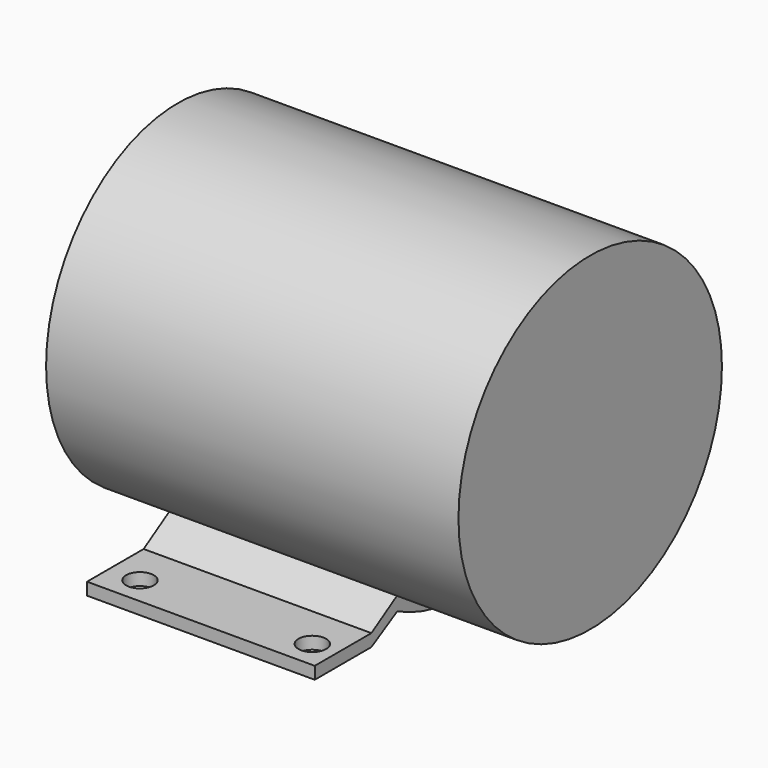
from build123d import *

# Parameters (mm, degrees)
SKETCH_R     = 53.5
PAD_DEPTH    = 134
SKETCH004_R  = 5
PAD002_DEPTH = 20
PAD001_DEPTH = 74
SKETCH002_R  = 4.5
POCKET_DEPTH = 5


with BuildPart() as motorbody:
    # Sketch → Pad (new body)
    with BuildSketch(Plane.YZ):
        Circle(SKETCH_R)
    extrude(amount=PAD_DEPTH)

    # Sketch004 (on Face2 of Pad) → Pad002 (join)
    with BuildSketch(Plane(origin=(0, 0, 0), x_dir=(0, 1, 0), z_dir=(-1, 0, 0))):
        Circle(SKETCH004_R)
    extrude(amount=PAD002_DEPTH)


with BuildPart() as motor:
    # Sketch001 → Pad001 (new body)
    with BuildSketch(Plane.YZ):
        with BuildLine():
            ThreePointArc((-26.5, -46.4758001545), (-13.7075652786, -51.7141436566), (0, -53.5))
            Line((0, -53.5), (0, -57.5))
            ThreePointArc((-26.5, -51.0294032887), (-13.6392688752, -55.8589325404), (0, -57.5))
            Line((-26.5, -51.0294032887), (-37, -57))
            Line((-37, -57), (-60, -57))
            Line((-60, -57), (-60, -53))
            Line((-60, -53), (-37, -53))
            Line((-26.5, -46.4758001545), (-37, -53))
        make_face()
    pad001 = extrude(amount=PAD001_DEPTH)

    # Sketch002 (on Face4 of Pad001) → Pocket (cut)
    with BuildSketch(Plane(origin=(0, 0, -53), x_dir=(0, -1, 0), z_dir=(0, 0, 1))):
        with Locations((51, 66)):
            Circle(SKETCH002_R)
        with Locations((51, 10)):
            Circle(SKETCH002_R)
    pocket = extrude(amount=-POCKET_DEPTH, mode=Mode.SUBTRACT)

    # Mirrored: Pad001 across Sketch001 V_Axis
    add(pad001.mirror(Plane(origin=(0, 0, 0), x_dir=(1, 0, 0), z_dir=(0, 1, 0))))

    # Mirrored001: Pocket across Sketch002 V_Axis
    add(pocket.mirror(Plane(origin=(0, 0, -53), x_dir=(0, 0, 1), z_dir=(0, -1, 0))), mode=Mode.SUBTRACT)


with BuildPart() as motor_1:
    # Body001 placement: moved
    add(motor.part.moved(Location((18.5, 0, 0))))

    # Connect: union MotorBody
    add(motorbody.part)


with BuildPart() as motor_2:
    # Connect placement: moved
    add(motor_1.part.moved(Location((0, 0, 57))))


solid = motor_2.part
